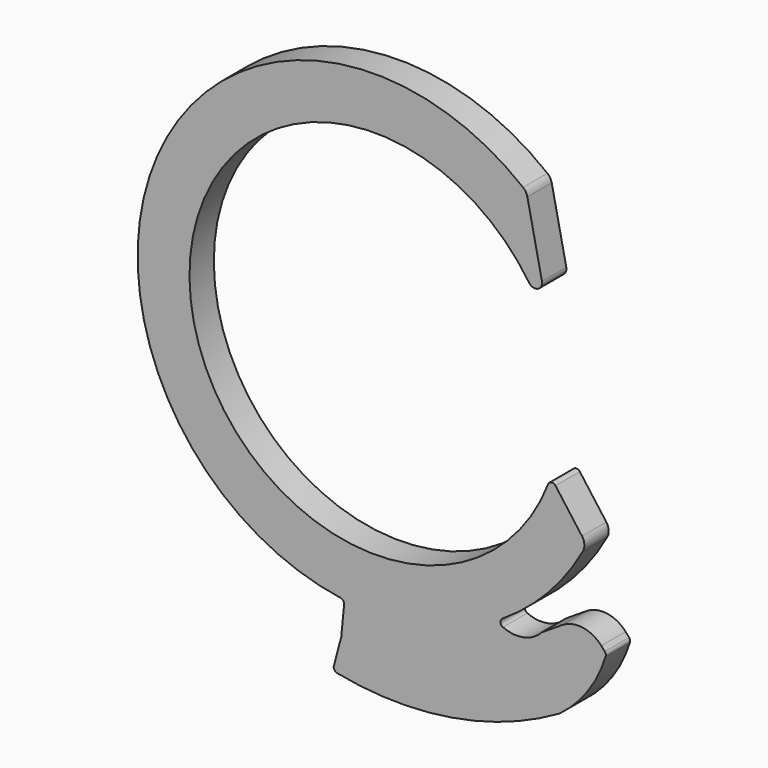
from build123d import *

# Parameters (mm, degrees)
F1_DEPTH = 6.35


with BuildPart() as f1:
    # F0 (on Front) → F1 (new body)
    with BuildSketch(Plane.XZ):
        with BuildLine():
            ThreePointArc((36.105425, -14.02849), (-38.494132, -4.313004), (32.105534, 21.671061))
            ThreePointArc((32.105534, 21.671061), (33.920444, 21.13248), (34.798219, 22.809823))
            Line((34.798219, 22.809823), (31.763018, 37.302126))
            ThreePointArc((31.763018, 37.302126), (31.439063, 38.114457), (30.858794, 38.768763))
            ThreePointArc((30.858794, 38.768763), (-45.458571, 19.718024), (-7.22108, -49.021813))
            ThreePointArc((-7.22108, -49.021813), (-6.659661, -49.347967), (-6.477468, -49.971163))
            Line((-6.477468, -49.971163), (-7.065909, -56.106829))
            Line((-7.065909, -56.106829), (-8.617056, -61.986796))
            ThreePointArc((-8.617056, -61.986796), (-8.513293, -62.673352), (-7.942163, -63.06824))
            ThreePointArc((-7.942163, -63.06824), (15.974473, -63.464906), (38.490769, -55.391539))
            ThreePointArc((38.490769, -55.391539), (44.37386, -49.351972), (48.08642, -41.782029))
            ThreePointArc((48.08642, -41.782029), (48.105097, -41.339921), (47.905105, -40.945192))
            Line((47.905105, -40.945192), (47.178056, -40.123806))
            ThreePointArc((47.178056, -40.123806), (43.294519, -38.042639), (38.991482, -38.989737))
            Line((38.991482, -38.989737), (34.744178, -41.717783))
            ThreePointArc((34.744178, -41.717783), (30.972039, -43.845517), (26.667266, -43.370956))
            ThreePointArc((26.667266, -43.370956), (26.152428, -42.635417), (26.556276, -41.833556))
            ThreePointArc((26.556276, -41.833556), (36.059104, -33.985632), (43.331171, -24.03522))
            ThreePointArc((43.331171, -24.03522), (43.644567, -22.637236), (43.151589, -21.292042))
            Line((43.151589, -21.292042), (37.624582, -13.824788))
            ThreePointArc((37.624582, -13.824788), (36.804853, -13.478055), (36.105425, -14.02849))
        make_face()
    extrude(amount=F1_DEPTH)


solid = f1.part
